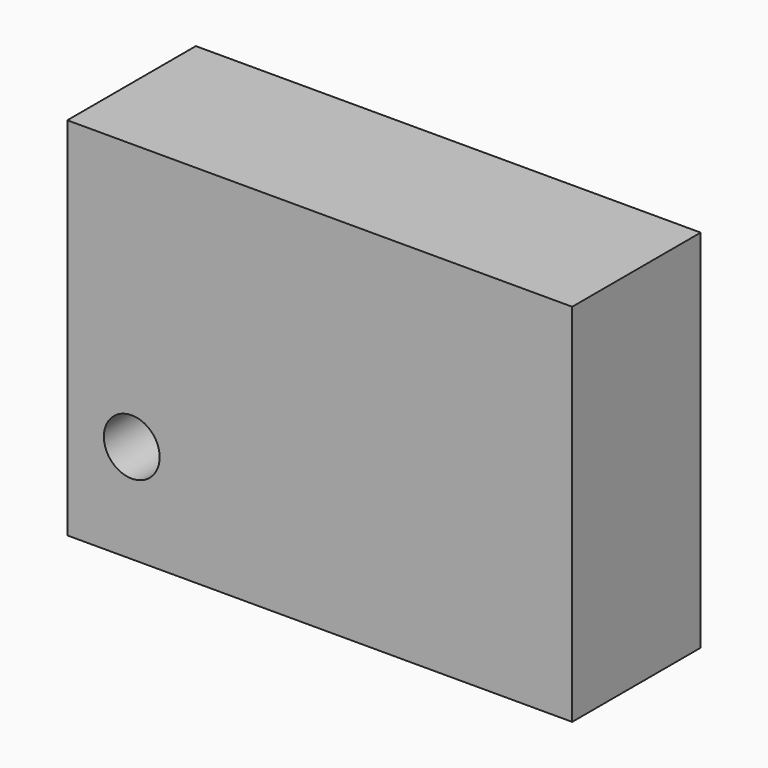
from build123d import *

# Parameters (mm, degrees)
F0_W     = 79.84292
F0_H     = 57.80068
F1_DEPTH = 25.4
F2_R     = 4.412951
F3_DEPTH = 25.4
F4_T     = -2.54


with BuildPart() as f1:
    # F0 (on Front) → F1 (new body)
    with BuildSketch(Plane.XZ):
        with Locations((-50.115223, 20.620596)):
            Rectangle(F0_W, F0_H)
    extrude(amount=F1_DEPTH)

    # F2 (on face) → F3 (cut)
    with BuildSketch(Plane.XZ.offset(25.4)):
        with Locations((-79.845399, 7.352189)):
            Circle(F2_R)
    extrude(amount=-F3_DEPTH, mode=Mode.SUBTRACT)

    # F4
    f4_openings = [f1.faces().sort_by_distance(p)[0] for p in [
        (-49.715801, 0, 20.798856),
    ]]
    offset(amount=F4_T, openings=f4_openings)


solid = f1.part
